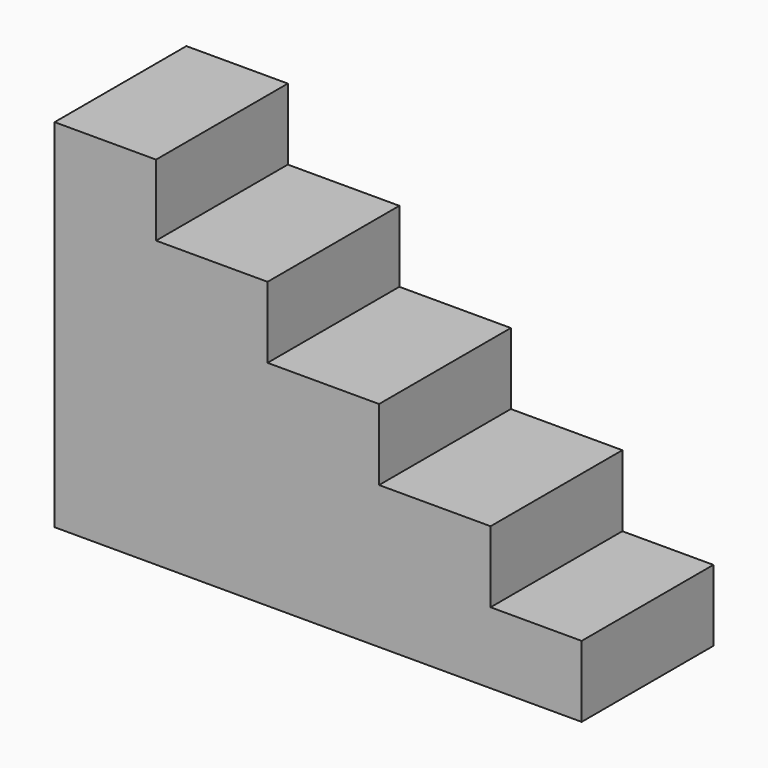
from build123d import *

# Parameters (mm, degrees)
F0_W     = 17.197048
F0_H     = 11
F1_DEPTH = 25.4


with BuildPart() as f1:
    # F0 (on Front) → F1 (new body)
    with BuildSketch(Plane.XZ):
        Polygon((-40.64, -5.5), (40.64, -5.5), (40.64, 5.5), (26.59588, 5.5), (9.398832, 5.5), (-7.796968, 5.5), (-24.994018, 5.5), (-40.64, 5.5), align=None)
        Polygon((-40.64, 49.5), (-40.64, 5.5), (-24.994018, 5.5), (-24.994018, 38.5), (-24.994018, 49.5), align=None)
        with Locations((17.997356, 11)):
            Rectangle(F0_W, F0_H)
        Polygon((-24.994018, 38.5), (-24.994018, 5.5), (-7.796968, 5.5), (-7.796968, 27.5), (-7.796968, 38.5), align=None)
        Polygon((-7.796968, 5.5), (9.398832, 5.5), (9.398832, 16.5), (9.398832, 27.5), (-7.796968, 27.5), align=None)
    extrude(amount=F1_DEPTH)


solid = f1.part
